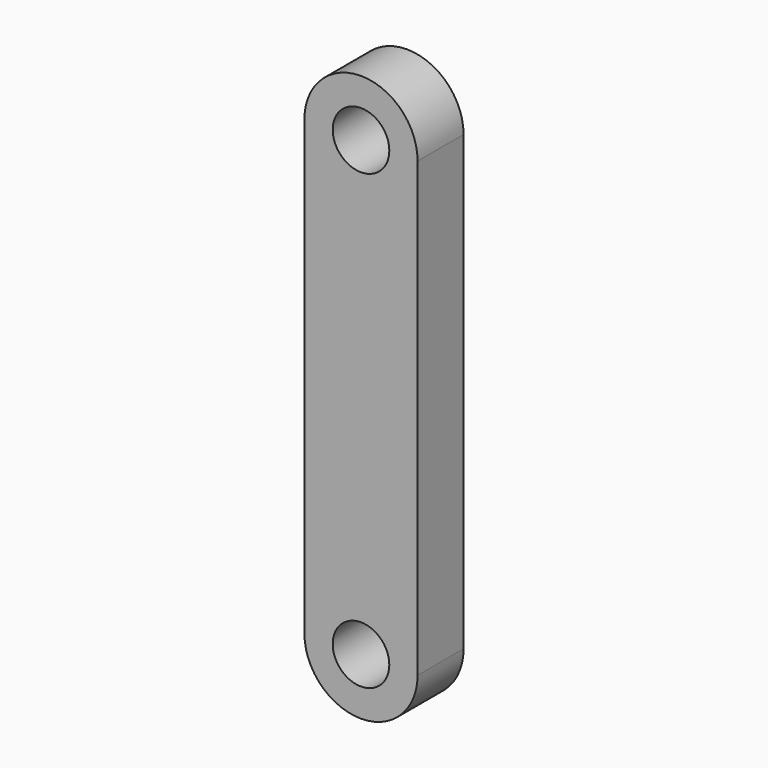
from build123d import *

# Parameters (mm, degrees)
F0_R     = 3.75
F1_DEPTH = 7.62


with BuildPart() as f1:
    # F0 (on Front) → F1 (new body)
    with BuildSketch(Plane.XZ):
        with BuildLine():
            Line((7.5, 0), (7.5, 60))
            ThreePointArc((7.5, 60), (0, 52.5), (-7.5, 60))
            Line((-7.5, 60), (-7.5, 0))
            ThreePointArc((-7.5, 0), (0, 7.5), (7.5, 0))
        make_face()
        with BuildLine():
            ThreePointArc((-7.5, 60), (0, 52.5), (7.5, 60))
            ThreePointArc((7.5, 60), (0, 67.5), (-7.5, 60))
        make_face()
        with Locations((0, 60)):
            Circle(F0_R, mode=Mode.SUBTRACT)
        with BuildLine():
            ThreePointArc((-7.5, 0), (0, -7.5), (7.5, 0))
            ThreePointArc((7.5, 0), (0, 7.5), (-7.5, 0))
        make_face()
        Circle(F0_R, mode=Mode.SUBTRACT)
    extrude(amount=F1_DEPTH)


solid = f1.part
